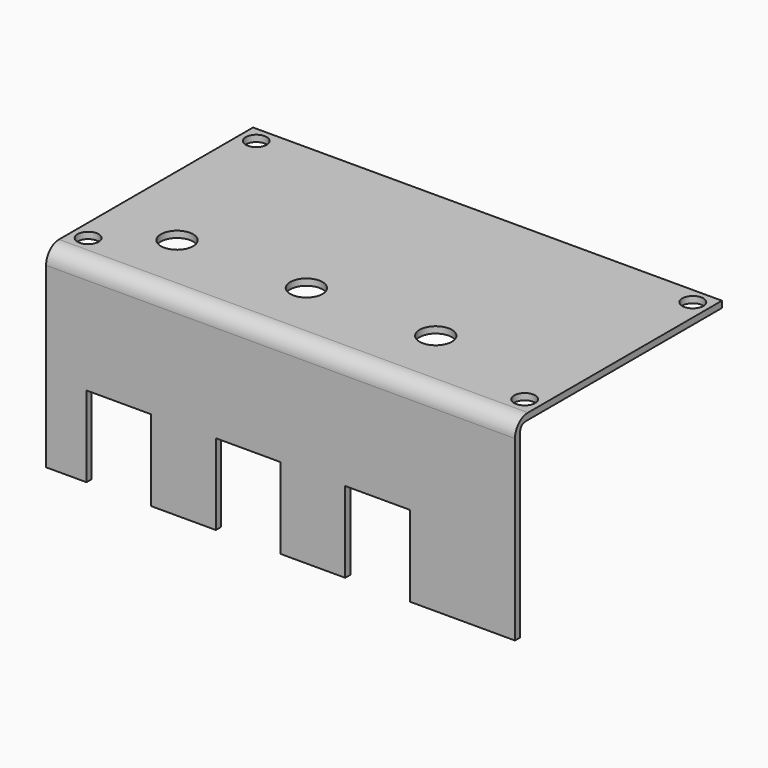
from build123d import *

# Parameters (mm, degrees)
F1_DEPTH = 72.5
F2_W     = 20
F2_H     = 25
F3_DEPTH = 25
F4_R     = 5
F5_DEPTH = 25
F6_R     = 3.25
F7_DEPTH = 25


with BuildPart() as f1:
    # F0 (on Right) → F1 (new body, symmetric)
    with BuildSketch(Plane.YZ):
        with BuildLine():
            Line((34.471770674, 53.4658672512), (34.471770674, 55.4658672512))
            Line((34.471770674, 55.4658672512), (-40.528229326, 55.4658672512))
            ThreePointArc((-40.528229326, 55.4658672512), (-44.0637632319, 54.0014011571), (-45.528229326, 50.4658672512))
            Line((-45.528229326, 50.4658672512), (-45.528229326, -4.5341327488))
            Line((-45.528229326, -4.5341327488), (-43.528229326, -4.5341327488))
            Line((-43.528229326, -4.5341327488), (-43.528229326, 51.4658672512))
            ThreePointArc((-43.528229326, 51.4658672512), (-42.9424428884, 52.8800808135), (-41.528229326, 53.4658672512))
            Line((-41.528229326, 53.4658672512), (34.471770674, 53.4658672512))
        make_face()
    extrude(amount=F1_DEPTH, both=True)

    # F2 (on face) → F3 (cut)
    with BuildSketch(Plane.XZ.offset(45.528229326)):
        with Locations((-50, 7.9658672512)):
            Rectangle(F2_W, F2_H)
        with Locations((-10, 7.9658672512)):
            Rectangle(F2_W, F2_H)
        with Locations((30, 7.9658672512)):
            Rectangle(F2_W, F2_H)
    extrude(amount=-F3_DEPTH, mode=Mode.SUBTRACT)

    # F4 (on face) → F5 (cut)
    with BuildSketch(Plane.XY.offset(55.4658672512)):
        with Locations((-50, -23.028229326)):
            Circle(F4_R)
        with Locations((-10, -23.028229326)):
            Circle(F4_R)
        with Locations((30, -23.028229326)):
            Circle(F4_R)
    extrude(amount=-F5_DEPTH, mode=Mode.SUBTRACT)

    # F6 (on face) → F7 (cut)
    with BuildSketch(Plane.XY.offset(55.4658672512)):
        with Locations((-67.5, -35.528229326)):
            Circle(F6_R)
        with Locations((-67.5, 29.471770674)):
            Circle(F6_R)
        with Locations((67.5, 29.471770674)):
            Circle(F6_R)
        with Locations((67.5, -35.528229326)):
            Circle(F6_R)
    extrude(amount=-F7_DEPTH, mode=Mode.SUBTRACT)


solid = f1.part
